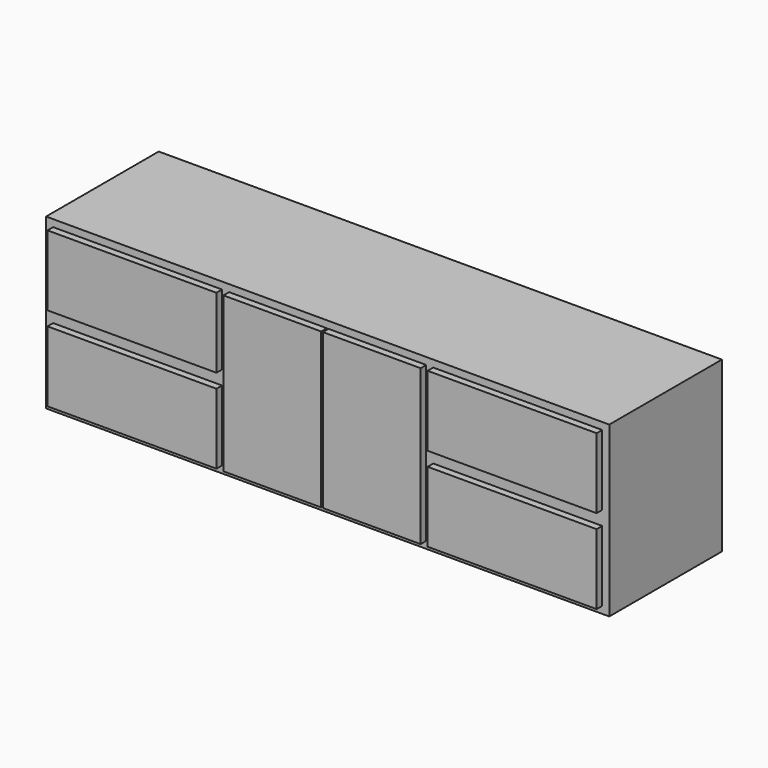
from build123d import *

# Parameters (mm, degrees)
F0_W     = 609.6
F0_H     = 254
F0_W_2   = 352.425
F0_H_2   = 558.8
F1_DEPTH = 25.4
F0_W_3   = 2032
F0_H_3   = 609.6
F2_DEPTH = 508


with BuildPart() as f1:
    # F0 (on Front) → F1 (new body)
    with BuildSketch(Plane.XZ):
        with Locations((-685.8, 457.2)):
            Rectangle(F0_W, F0_H)
        with Locations((-685.8, 152.4)):
            Rectangle(F0_W, F0_H)
        with Locations((685.8, 457.2)):
            Rectangle(F0_W, F0_H)
        with Locations((685.8, 152.4)):
            Rectangle(F0_W, F0_H)
        with Locations((179.3875, 304.8)):
            Rectangle(F0_W_2, F0_H_2)
        with Locations((-179.3875, 304.8)):
            Rectangle(F0_W_2, F0_H_2)
    extrude(amount=F1_DEPTH)


with BuildPart() as f2:
    # F0 (on Front) → F2 (new body)
    with BuildSketch(Plane.XZ):
        with Locations((0, 304.8)):
            Rectangle(F0_W_3, F0_H_3)
        with Locations((-685.8, 152.4)):
            Rectangle(F0_W, F0_H, mode=Mode.SUBTRACT)
        with Locations((685.8, 152.4)):
            Rectangle(F0_W, F0_H, mode=Mode.SUBTRACT)
        with Locations((-179.3875, 304.8)):
            Rectangle(F0_W_2, F0_H_2, mode=Mode.SUBTRACT)
        with Locations((-685.8, 457.2)):
            Rectangle(F0_W, F0_H, mode=Mode.SUBTRACT)
        with Locations((179.3875, 304.8)):
            Rectangle(F0_W_2, F0_H_2, mode=Mode.SUBTRACT)
        with Locations((685.8, 457.2)):
            Rectangle(F0_W, F0_H, mode=Mode.SUBTRACT)
    extrude(amount=-F2_DEPTH)


solid = Compound([f1.part, f2.part])
